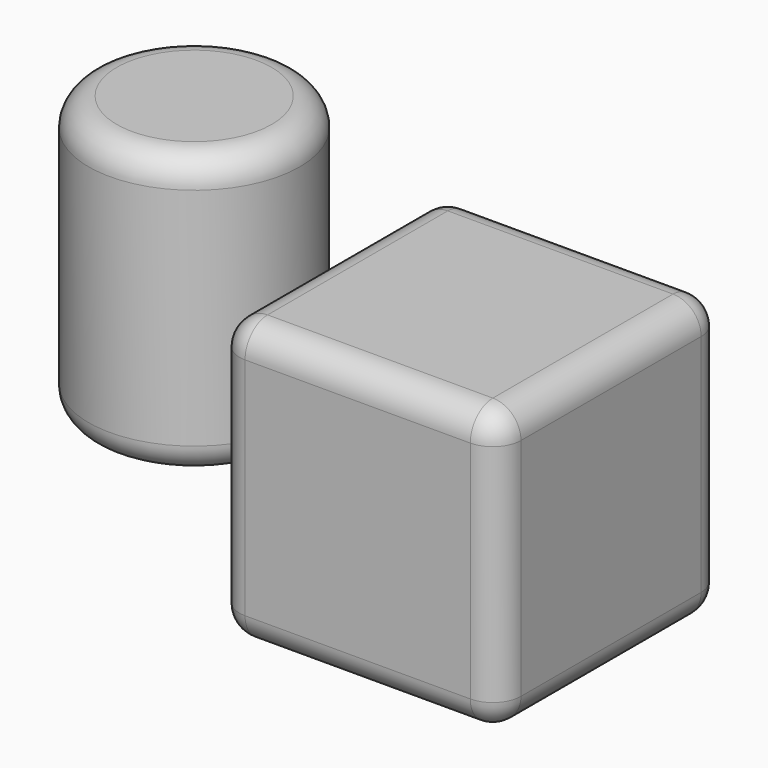
from build123d import *

# Parameters (mm, degrees)
F0_W     = 50.8
F0_H     = 50.8
F0_R     = 19.05
F1_DEPTH = 50.8
F2_R     = 5.08


with BuildPart() as f1:
    # F0 (on Top) → F1 (new body)
    with BuildSketch(Plane.XY):
        with Locations((-25.4, -25.4)):
            Rectangle(F0_W, F0_H)
        with Locations((-95.540129, 0)):
            Circle(F0_R)
    extrude(amount=F1_DEPTH)

    # F2
    f2_edges = [f1.edges().sort_by_distance(p)[0] for p in [
        (-114.590129, 0, 50.8),
        (-50.8, 0, 25.4),
        (-50.8, -50.8, 25.4),
        (-50.8, -25.4, 0),
        (-50.8, -25.4, 50.8),
        (0, -25.4, 50.8),
        (-25.4, 0, 50.8),
        (-25.4, -50.8, 50.8),
        (0, -50.8, 25.4),
        (0, 0, 25.4),
        (0, -25.4, 0),
        (-25.4, -50.8, 0),
        (-25.4, 0, 0),
        (-114.590129, 0, 0),
    ]]
    fillet(f2_edges, radius=F2_R)


solid = f1.part
